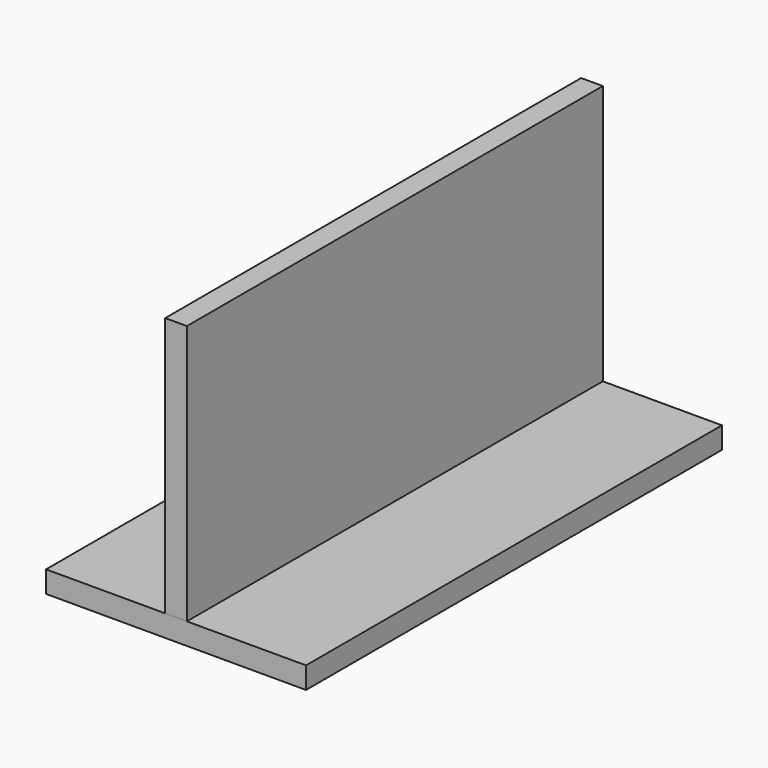
from build123d import *

# Parameters (mm, degrees)
F0_W     = 6.35
F0_H     = 76.2
F1_DEPTH = 152.4
F2_DEPTH = 152.4


with BuildPart() as f1:
    # F0 (on Front) → F1 (new body)
    with BuildSketch(Plane.XZ):
        with Locations((0, 38.1)):
            Rectangle(F0_W, F0_H)
    extrude(amount=F1_DEPTH)


with BuildPart() as f2:
    # F0 (on Front) → F2 (new body)
    with BuildSketch(Plane.XZ):
        Polygon((-3.175, 0), (-38.1, 0), (-38.1, -6.35), (38.1, -6.35), (38.1, 0), (3.175, 0), align=None)
    extrude(amount=F2_DEPTH)


solid = Compound([f1.part, f2.part])
